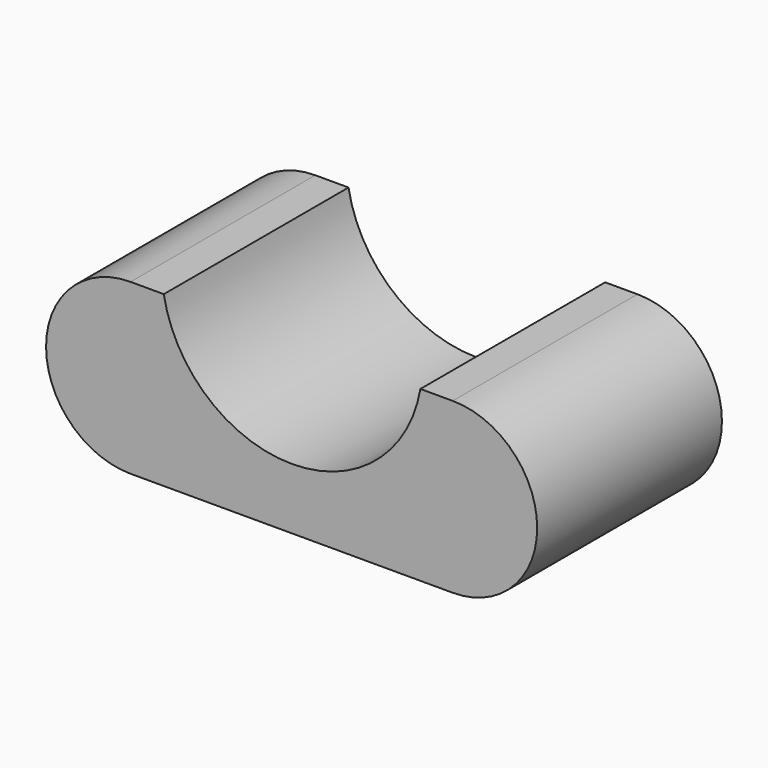
from build123d import *

# Parameters (mm, degrees)
F1_DEPTH = 36


with BuildPart() as f1:
    # F0 (on Front) → F1 (new body)
    with BuildSketch(Plane.XZ):
        with BuildLine():
            Line((-50.222106, 0), (0, 0))
            ThreePointArc((0, 0), (13.167114, 13.167114), (0, 26.334228))
            Line((0, 26.334228), (-5.036602, 26.334228))
            ThreePointArc((-5.036602, 26.334228), (-25.039102, 9.52644), (-45.041602, 26.334228))
            Line((-45.041602, 26.334228), (-50.222106, 26.334228))
            ThreePointArc((-50.222106, 26.334228), (-63.38922, 13.167114), (-50.222106, 0))
        make_face()
    extrude(amount=F1_DEPTH)


solid = f1.part
